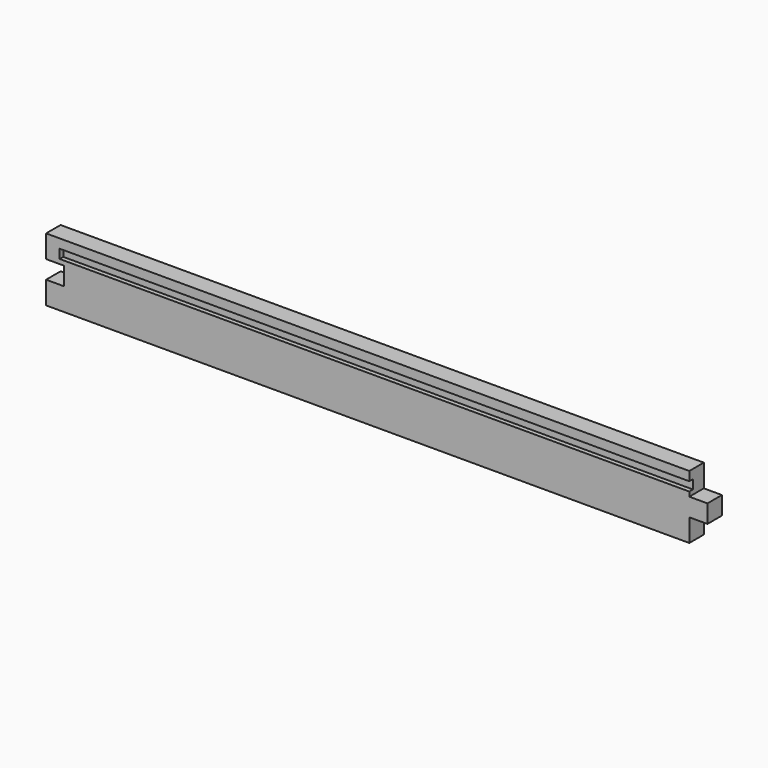
from build123d import *

# Parameters (mm, degrees)
F0_W          = 730
F0_H          = 20
F1_DEPTH      = 70
F2_W          = 5
F2_H          = 10
F3_DEPTH      = 715
F3_DEPTH_BACK = 15
F4_W          = 20
F4_H          = 25
F4_H_2        = 20
F5_DEPTH      = 20.001


with BuildPart() as f1:
    # F0 (on Top) → F1 (new body)
    with BuildSketch(Plane.XY):
        with Locations((-39.742246, -17.948127)):
            Rectangle(F0_W, F0_H)
    extrude(amount=F1_DEPTH)

    # F2 (on face) → F3 (cut, two sides)
    with BuildSketch(Plane.YZ.offset(325.257754)) as f3_sk:
        with Locations((-25.448127, 55)):
            Rectangle(F2_W, F2_H)
    extrude(amount=-F3_DEPTH, mode=Mode.SUBTRACT)
    extrude(f3_sk.sketch, amount=-F3_DEPTH_BACK, mode=Mode.SUBTRACT)

    # F4 (on face) → F5 (cut, through all)
    with BuildSketch(Plane(origin=(0, -7.948127, 0), x_dir=(-1, 0, 0), z_dir=(0, 1, 0))):
        with Locations((-315.257754, 57.5)):
            Rectangle(F4_W, F4_H)
        with Locations((-315.257754, 12.5)):
            Rectangle(F4_W, F4_H)
        with Locations((394.742246, 35)):
            Rectangle(F4_W, F4_H_2)
    extrude(amount=-F5_DEPTH, mode=Mode.SUBTRACT)


solid = f1.part
